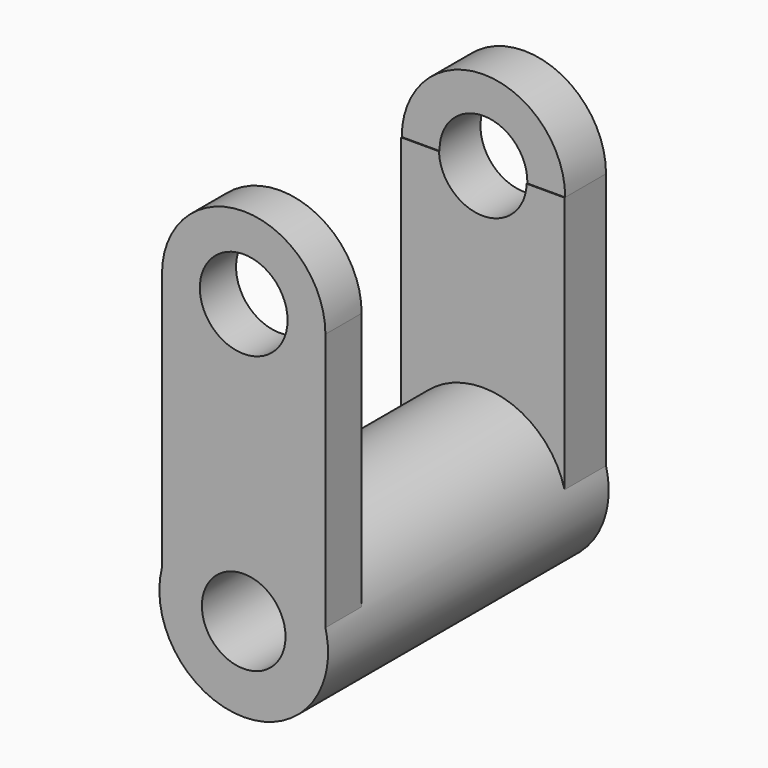
from build123d import *

# Parameters (mm, degrees)
F0_R      = 26.0164599328
F1_DEPTH  = 108.204
F2_W      = 50.4153975605
F2_H      = 92.5804451108
F3_DEPTH  = 13.97
F4_W      = 50.4153975605
F4_H      = 99.2666035891
F5_DEPTH  = 16.002
F6_W      = 16.002
F6_H      = 7.0882067084
F7_DEPTH  = 64.008
F8_R      = 12.9022316947
F9_DEPTH  = 152.146
F11_DEPTH = 15.748
F13_DEPTH = 13.97
F14_R     = 13.5333252063
F15_DEPTH = 238.252


with BuildPart() as f1:
    # F0 (on Front) → F1 (new body)
    with BuildSketch(Plane.XZ):
        with Locations((-32.4612818658, 6.4364671707)):
            Circle(F0_R)
    extrude(amount=F1_DEPTH)

    # F2 (on face) → F3 (join)
    with BuildSketch(Plane.XZ.offset(108.204)):
        with Locations((-32.4612818658, 46.2902225554)):
            Rectangle(F2_W, F2_H)
    extrude(amount=-F3_DEPTH)

    # F4 (on face) → F5 (join)
    with BuildSketch(Plane(origin=(0, 0, 0), x_dir=(-1, 0, 0), z_dir=(0, 1, 0))):
        with Locations((32.4612818658, 49.6333017945)):
            Rectangle(F4_W, F4_H)
    extrude(amount=-F5_DEPTH)

    # F6 (on face) → F7 (cut)
    with BuildSketch(Plane.YZ.offset(-7.2535830856)):
        with Locations((-8.001, 95.7225002348)):
            Rectangle(F6_W, F6_H)
    extrude(amount=-F7_DEPTH, mode=Mode.SUBTRACT)

    # F8 (on face) → F9 (cut)
    with BuildSketch(Plane.XZ.offset(108.204)):
        with Locations((-32.4612818658, 6.4364671707)):
            Circle(F8_R)
    extrude(amount=-F9_DEPTH, mode=Mode.SUBTRACT)

    # F10 (on face) → F11 (join)
    with BuildSketch(Plane(origin=(0, 0, 0), x_dir=(-1, 0, 0), z_dir=(0, 1, 0))):
        with BuildLine():
            Line((7.2535830856, 92.1783968806), (57.6689806461, 92.1783968806))
            ThreePointArc((57.6689806461, 92.1783968806), (32.4612818658, 117.3860956609), (7.2535830856, 92.1783968806))
        make_face()
    extrude(amount=-F11_DEPTH)

    # F12 (on face) → F13 (join)
    with BuildSketch(Plane.XZ.offset(108.204)):
        with BuildLine():
            Line((-57.6689806461, 92.5804451108), (-7.2535830856, 92.5804451108))
            ThreePointArc((-7.2535830856, 92.5804451108), (-32.4612818658, 117.7881438911), (-57.6689806461, 92.5804451108))
        make_face()
    extrude(amount=-F13_DEPTH)

    # F14 (on face) → F15 (cut)
    with BuildSketch(Plane.XZ.offset(108.204)):
        with Locations((-32.4612818658, 92.5804451108)):
            Circle(F14_R)
    extrude(amount=-F15_DEPTH, mode=Mode.SUBTRACT)


solid = f1.part
